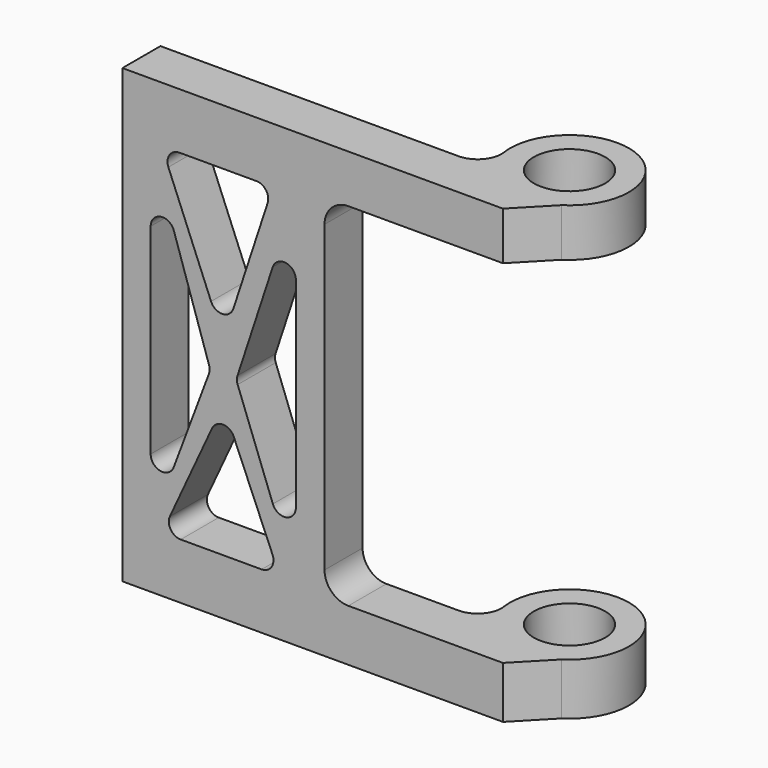
from build123d import *

# Parameters (mm, degrees)
F0_R      = 3
F1_DEPTH  = 38
F3_W      = 47.0337605621
F3_H      = 38
F4_DEPTH  = 2
F6_DEPTH  = 38
F7_DEPTH  = 12.5
F9_DEPTH  = 25
F10_R     = 1
F11_W     = 18.2646340574
F11_H     = 47.5416160189
F12_DEPTH = 25


with BuildPart() as f1:
    # F0 (on Top) → F1 (new body)
    with BuildSketch(Plane.XY):
        with BuildLine():
            Line((-30.015476048, 0), (17.0182845141, 0))
            ThreePointArc((17.0182845141, 0), (20.2915528676, 8.7796447301), (12.069567921, 4.2857142857))
            ThreePointArc((12.069567921, 4.2857142857), (11.6019391758, 2.6906926586), (10.0900812838, 2))
            Line((10.0900812838, 2), (-30.015476048, 2))
            Line((-30.015476048, 2), (-30.015476048, 0))
        make_face()
        with Locations((17.0182845141, 5)):
            Circle(F0_R, mode=Mode.SUBTRACT)
    extrude(amount=F1_DEPTH)

    # F3 (on face) → F4 (join)
    with BuildSketch(Plane.XZ):
        with Locations((-6.498595767, 19)):
            Rectangle(F3_W, F3_H)
    extrude(amount=F4_DEPTH)

    # F5 (on face) → F6 (join)
    with BuildSketch(Plane(origin=(0, 0, 0), x_dir=(1, 0, 0), z_dir=(0, 0, -1))):
        with BuildLine():
            Line((19.7223976995, -0.7943167166), (17.0182845141, 2))
            Line((17.0182845141, 2), (17.0182845141, 0))
            ThreePointArc((17.0182845141, 0), (18.4274657627, -0.2026873973), (19.7223976995, -0.7943167166))
        make_face()
    extrude(amount=-F6_DEPTH)

    # F2 (on face) → F7 (cut, symmetric)
    with BuildSketch(Plane.XZ):
        with BuildLine():
            Line((-16.9817154859, 33.5), (-30.015476048, 33.5))
            Line((-30.015476048, 33.5), (-30.015476048, 4.5))
            Line((-30.015476048, 4.5), (-16.9817154859, 4.5))
            ThreePointArc((-16.9817154859, 4.5), (-15.5675019236, 5.0857864376), (-14.9817154859, 6.5))
            Line((-14.9817154859, 6.5), (-14.9817154859, 31.5))
            ThreePointArc((-14.9817154859, 31.5), (-15.5675019236, 32.9142135624), (-16.9817154859, 33.5))
        make_face()
        with BuildLine():
            Line((38.1005785107, 4.3682365306), (38.1005785107, 33.9556627348))
            Line((38.1005785107, 33.9556627348), (4.0182845141, 33.9556627348))
            ThreePointArc((4.0182845141, 33.9556627348), (2.6040709517, 33.3698762972), (2.0182845141, 31.9556627348))
            Line((2.0182845141, 31.9556627348), (2.0182845141, 6.3682365306))
            ThreePointArc((2.0182845141, 6.3682365306), (2.6040709517, 4.9540229682), (4.0182845141, 4.3682365306))
            Line((4.0182845141, 4.3682365306), (38.1005785107, 4.3682365306))
        make_face()
    extrude(amount=F7_DEPTH, both=True, mode=Mode.SUBTRACT)

    # F8 (on face) → F9 (cut)
    with BuildSketch(Plane.XZ.offset(2)):
        Polygon((-7.5863441452, 18.0459246039), (-12.6038566232, 33.2977212965), (-12.6038566232, 4.6920240857), align=None)
        Polygon((-0.3933349107, 33.2977212965), (-5.4108473887, 18.0459246039), (-0.3933349107, 4.6920240857), align=None)
        Polygon((-2.3342688624, 33.2977212965), (-11.6795975956, 33.2977212965), (-6.498595767, 20.6393636763), align=None)
        Polygon((-1.7651436112, 4.6920240857), (-6.498595767, 15.827909112), (-11.6411998855, 4.6920240857), align=None)
    extrude(amount=-F9_DEPTH, mode=Mode.SUBTRACT)

    # F10
    f10_edges = [f1.edges().sort_by_distance(p)[0] for p in [
        (-11.679598, 0, 33.297721),
        (-2.334269, 0, 33.297721),
        (-12.603857, 0, 33.297721),
        (-12.603857, 0, 4.692024),
        (-7.586344, 0, 18.045925),
        (-6.498596, 0, 20.639364),
        (-0.393335, 0, 33.297721),
        (-5.410847, 0, 18.045925),
        (-0.393335, 0, 4.692024),
        (-6.498596, 0, 15.827909),
        (-1.765144, 0, 4.692024),
        (-11.6412, 0, 4.692024),
    ]]
    fillet(f10_edges, radius=F10_R)

    # F11 (on face) → F12 (cut)
    with BuildSketch(Plane.XZ.offset(2)):
        with Locations((-24.1140325146, 18.5290810186)):
            Rectangle(F11_W, F11_H)
    extrude(amount=-F12_DEPTH, mode=Mode.SUBTRACT)


solid = f1.part
